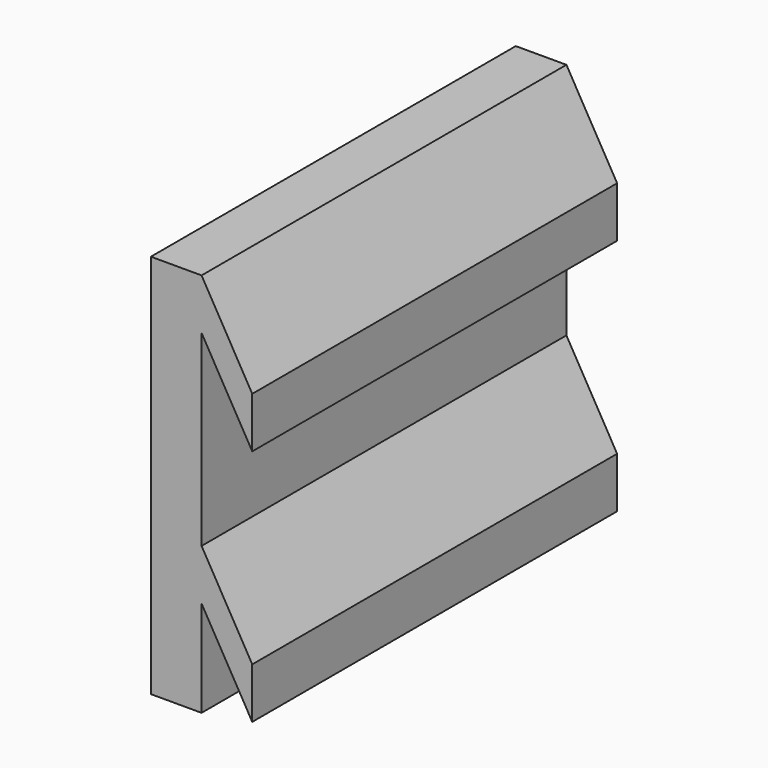
from build123d import *

# Parameters (mm, degrees)
F0_W     = 5
F0_H     = 45
F1_DEPTH = 38
F3_DEPTH = 22.5


with BuildPart() as f1:
    # F0 (on Top) → F1 (new body)
    with BuildSketch(Plane.XY):
        Rectangle(F0_W, F0_H)
    extrude(amount=F1_DEPTH)

    # F2 (on Front) → F3 (join, symmetric)
    with BuildSketch(Plane.XZ):
        Polygon((7.5, 29.339746), (2.5, 38), (2.5, 33), (7.5, 24.339746), align=None)
        Polygon((7.5, 5.839746), (2.5, 14.5), (2.5, 9.5), (7.5, 0.839746), align=None)
    extrude(amount=F3_DEPTH, both=True)


solid = f1.part
